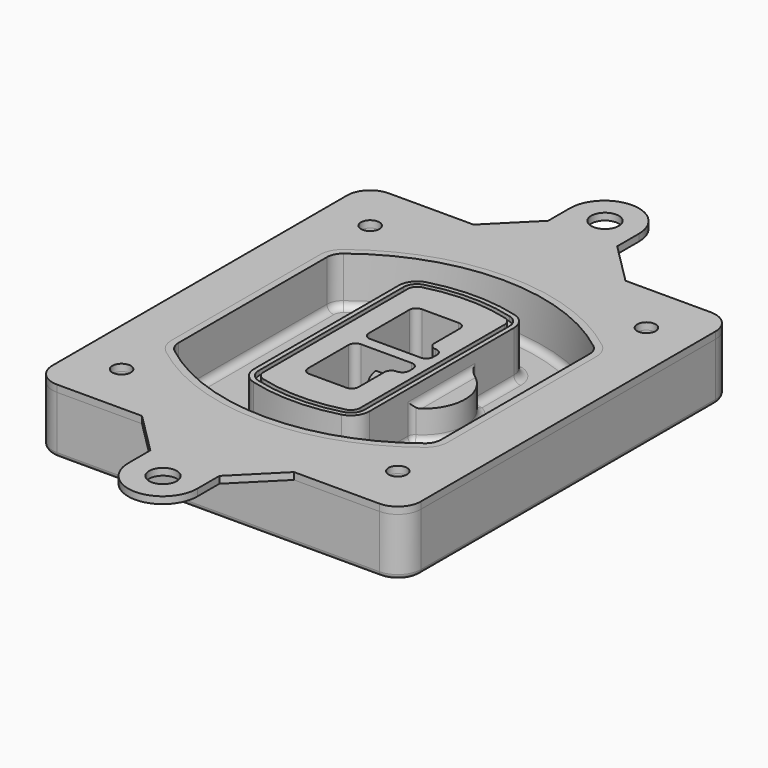
from build123d import *

# Parameters (mm, degrees)
F0_R      = 4
F1_DEPTH  = 25
F2_DEPTH  = 3
F3_DEPTH  = 18
F5_DEPTH  = 21
F6_DEPTH  = 2
F8_DEPTH  = 20
F9_DEPTH  = 16
F7_R      = 6
F7_R_2    = 4
F10_DEPTH = 6
F12_DEPTH = 9
F13_R     = 3
F14_R     = 2
F15_R     = 4
F16_DEPTH = 3
F15_R_2   = 6
F17_DEPTH = 3


with BuildPart() as f1:
    # F0 (on Top) → F1 (new body)
    with BuildSketch(Plane.XY):
        with BuildLine():
            ThreePointArc((-80, -80), (-77.0710678119, -87.0710678119), (-70, -90))
            Line((-70, -90), (70, -90))
            ThreePointArc((70, -90), (77.0710678119, -87.0710678119), (80, -80))
            Line((80, -80), (80, 80))
            ThreePointArc((80, 80), (77.0710678119, 87.0710678119), (70, 90))
            Line((70, 90), (-70, 90))
            ThreePointArc((-70, 90), (-77.0710678119, 87.0710678119), (-80, 80))
            Line((-80, 80), (-80, -80))
        make_face()
        with Locations((-60, -67.5)):
            Circle(F0_R, mode=Mode.SUBTRACT)
        with Locations((60, -67.5)):
            Circle(F0_R, mode=Mode.SUBTRACT)
        with Locations((-60, 67.5)):
            Circle(F0_R, mode=Mode.SUBTRACT)
        with BuildLine():
            ThreePointArc((-64, 40.2934422872), (-62.5820384798, 46.4328484224), (-58.6153846154, 51.3286200352))
            ThreePointArc((-58.6153846154, 51.3286200352), (0, 71.5), (58.6153846154, 51.3286200352))
            ThreePointArc((58.6153846154, 51.3286200352), (62.5820384798, 46.4328484224), (64, 40.2934422872))
            Line((64, 40.2934422872), (64, -40.2934422872))
            ThreePointArc((64, -40.2934422872), (62.5820384798, -46.4328484224), (58.6153846154, -51.3286200352))
            ThreePointArc((58.6153846154, -51.3286200352), (0, -71.5), (-58.6153846154, -51.3286200352))
            ThreePointArc((-58.6153846154, -51.3286200352), (-62.5820384798, -46.4328484224), (-64, -40.2934422872))
            Line((-64, -40.2934422872), (-64, 40.2934422872))
        make_face(mode=Mode.SUBTRACT)
        with Locations((60, 67.5)):
            Circle(F0_R, mode=Mode.SUBTRACT)
        with BuildLine():
            ThreePointArc((58.6153846154, 51.3286200352), (0, 71.5), (-58.6153846154, 51.3286200352))
            ThreePointArc((-58.6153846154, 51.3286200352), (-62.5820384798, 46.4328484224), (-64, 40.2934422872))
            Line((-64, 40.2934422872), (-64, -40.2934422872))
            ThreePointArc((-64, -40.2934422872), (-62.5820384798, -46.4328484224), (-58.6153846154, -51.3286200352))
            ThreePointArc((-58.6153846154, -51.3286200352), (0, -71.5), (58.6153846154, -51.3286200352))
            ThreePointArc((58.6153846154, -51.3286200352), (62.5820384798, -46.4328484224), (64, -40.2934422872))
            Line((64, -40.2934422872), (64, 40.2934422872))
            ThreePointArc((64, 40.2934422872), (62.5820384798, 46.4328484224), (58.6153846154, 51.3286200352))
        make_face()
        with BuildLine():
            Line((-60, -40.2934422872), (-60, 40.2934422872))
            ThreePointArc((-60, 40.2934422872), (-58.9871703427, 44.6787323838), (-56.1538461538, 48.1757121072))
            ThreePointArc((-56.1538461538, 48.1757121072), (0, 67.5), (56.1538461538, 48.1757121072))
            ThreePointArc((56.1538461538, 48.1757121072), (58.9871703427, 44.6787323838), (60, 40.2934422872))
            Line((60, 40.2934422872), (60, -40.2934422872))
            ThreePointArc((60, -40.2934422872), (58.9871703427, -44.6787323838), (56.1538461538, -48.1757121072))
            ThreePointArc((56.1538461538, -48.1757121072), (0, -67.5), (-56.1538461538, -48.1757121072))
            ThreePointArc((-56.1538461538, -48.1757121072), (-58.9871703427, -44.6787323838), (-60, -40.2934422872))
        make_face(mode=Mode.SUBTRACT)
        with BuildLine():
            ThreePointArc((-56.1538461538, 48.1757121072), (-58.9871703427, 44.6787323838), (-60, 40.2934422872))
            Line((-60, 40.2934422872), (-60, -40.2934422872))
            ThreePointArc((-60, -40.2934422872), (-58.9871703427, -44.6787323838), (-56.1538461538, -48.1757121072))
            ThreePointArc((-56.1538461538, -48.1757121072), (0, -67.5), (56.1538461538, -48.1757121072))
            ThreePointArc((56.1538461538, -48.1757121072), (58.9871703427, -44.6787323838), (60, -40.2934422872))
            Line((60, -40.2934422872), (60, 40.2934422872))
            ThreePointArc((60, 40.2934422872), (58.9871703427, 44.6787323838), (56.1538461538, 48.1757121072))
            ThreePointArc((56.1538461538, 48.1757121072), (0, 67.5), (-56.1538461538, 48.1757121072))
        make_face()
        with BuildLine():
            ThreePointArc((54.3076923077, 45.8110311612), (56.2910192399, 43.3631453548), (57, 40.2934422872))
            Line((57, 40.2934422872), (57, -40.2934422872))
            ThreePointArc((57, -40.2934422872), (56.2910192399, -43.3631453548), (54.3076923077, -45.8110311612))
            ThreePointArc((54.3076923077, -45.8110311612), (0, -64.5), (-54.3076923077, -45.8110311612))
            ThreePointArc((-54.3076923077, -45.8110311612), (-56.2910192399, -43.3631453548), (-57, -40.2934422872))
            Line((-57, -40.2934422872), (-57, 40.2934422872))
            ThreePointArc((-57, 40.2934422872), (-56.2910192399, 43.3631453548), (-54.3076923077, 45.8110311612))
            ThreePointArc((-54.3076923077, 45.8110311612), (0, 64.5), (54.3076923077, 45.8110311612))
        make_face(mode=Mode.SUBTRACT)
        with BuildLine():
            Line((57, -40.2934422872), (57, 40.2934422872))
            ThreePointArc((57, 40.2934422872), (56.2910192399, 43.3631453548), (54.3076923077, 45.8110311612))
            ThreePointArc((54.3076923077, 45.8110311612), (0, 64.5), (-54.3076923077, 45.8110311612))
            ThreePointArc((-54.3076923077, 45.8110311612), (-56.2910192399, 43.3631453548), (-57, 40.2934422872))
            Line((-57, 40.2934422872), (-57, -40.2934422872))
            ThreePointArc((-57, -40.2934422872), (-56.2910192399, -43.3631453548), (-54.3076923077, -45.8110311612))
            ThreePointArc((-54.3076923077, -45.8110311612), (0, -64.5), (54.3076923077, -45.8110311612))
            ThreePointArc((54.3076923077, -45.8110311612), (56.2910192399, -43.3631453548), (57, -40.2934422872))
        make_face()
    extrude(amount=-F1_DEPTH)

    # F0 (on Top) → F2 (join)
    with BuildSketch(Plane.XY):
        with BuildLine():
            ThreePointArc((-56.1538461538, 48.1757121072), (-58.9871703427, 44.6787323838), (-60, 40.2934422872))
            Line((-60, 40.2934422872), (-60, -40.2934422872))
            ThreePointArc((-60, -40.2934422872), (-58.9871703427, -44.6787323838), (-56.1538461538, -48.1757121072))
            ThreePointArc((-56.1538461538, -48.1757121072), (0, -67.5), (56.1538461538, -48.1757121072))
            ThreePointArc((56.1538461538, -48.1757121072), (58.9871703427, -44.6787323838), (60, -40.2934422872))
            Line((60, -40.2934422872), (60, 40.2934422872))
            ThreePointArc((60, 40.2934422872), (58.9871703427, 44.6787323838), (56.1538461538, 48.1757121072))
            ThreePointArc((56.1538461538, 48.1757121072), (0, 67.5), (-56.1538461538, 48.1757121072))
        make_face()
        with BuildLine():
            ThreePointArc((54.3076923077, 45.8110311612), (56.2910192399, 43.3631453548), (57, 40.2934422872))
            Line((57, 40.2934422872), (57, -40.2934422872))
            ThreePointArc((57, -40.2934422872), (56.2910192399, -43.3631453548), (54.3076923077, -45.8110311612))
            ThreePointArc((54.3076923077, -45.8110311612), (0, -64.5), (-54.3076923077, -45.8110311612))
            ThreePointArc((-54.3076923077, -45.8110311612), (-56.2910192399, -43.3631453548), (-57, -40.2934422872))
            Line((-57, -40.2934422872), (-57, 40.2934422872))
            ThreePointArc((-57, 40.2934422872), (-56.2910192399, 43.3631453548), (-54.3076923077, 45.8110311612))
            ThreePointArc((-54.3076923077, 45.8110311612), (0, 64.5), (54.3076923077, 45.8110311612))
        make_face(mode=Mode.SUBTRACT)
    extrude(amount=F2_DEPTH)

    # F0 (on Top) → F3 (cut)
    with BuildSketch(Plane.XY):
        with BuildLine():
            Line((57, -40.2934422872), (57, 40.2934422872))
            ThreePointArc((57, 40.2934422872), (56.2910192399, 43.3631453548), (54.3076923077, 45.8110311612))
            ThreePointArc((54.3076923077, 45.8110311612), (0, 64.5), (-54.3076923077, 45.8110311612))
            ThreePointArc((-54.3076923077, 45.8110311612), (-56.2910192399, 43.3631453548), (-57, 40.2934422872))
            Line((-57, 40.2934422872), (-57, -40.2934422872))
            ThreePointArc((-57, -40.2934422872), (-56.2910192399, -43.3631453548), (-54.3076923077, -45.8110311612))
            ThreePointArc((-54.3076923077, -45.8110311612), (0, -64.5), (54.3076923077, -45.8110311612))
            ThreePointArc((54.3076923077, -45.8110311612), (56.2910192399, -43.3631453548), (57, -40.2934422872))
        make_face()
    extrude(amount=-F3_DEPTH, mode=Mode.SUBTRACT)

    # F4 (on face) → F5 (join, through all)
    with BuildSketch(Plane.XY.offset(3)):
        with BuildLine():
            ThreePointArc((-25, -39.2465276821), (-23.3511545998, -44.1109737193), (-19.0842911877, -46.9702398883))
            ThreePointArc((-19.0842911877, -46.9702398883), (0, -49.5), (19.0842911877, -46.9702398883))
            ThreePointArc((19.0842911877, -46.9702398883), (23.3511545998, -44.1109737193), (25, -39.2465276821))
            Line((25, -39.2465276821), (25, 39.2465276821))
            ThreePointArc((25, 39.2465276821), (23.3511545998, 44.1109737193), (19.0842911877, 46.9702398883))
            ThreePointArc((19.0842911877, 46.9702398883), (0, 49.5), (-19.0842911877, 46.9702398883))
            ThreePointArc((-19.0842911877, 46.9702398883), (-23.3511545998, 44.1109737193), (-25, 39.2465276821))
            Line((-25, 39.2465276821), (-25, -39.2465276821))
        make_face()
        with BuildLine():
            ThreePointArc((18.5632183908, 45.0393118368), (21.7633659499, 42.89486221), (23, 39.2465276821))
            Line((23, 39.2465276821), (23, -39.2465276821))
            ThreePointArc((23, -39.2465276821), (21.7633659499, -42.89486221), (18.5632183908, -45.0393118368))
            ThreePointArc((18.5632183908, -45.0393118368), (0, -47.5), (-18.5632183908, -45.0393118368))
            ThreePointArc((-18.5632183908, -45.0393118368), (-21.7633659499, -42.89486221), (-23, -39.2465276821))
            Line((-23, -39.2465276821), (-23, 39.2465276821))
            ThreePointArc((-23, 39.2465276821), (-21.7633659499, 42.89486221), (-18.5632183908, 45.0393118368))
            ThreePointArc((-18.5632183908, 45.0393118368), (0, 47.5), (18.5632183908, 45.0393118368))
        make_face(mode=Mode.SUBTRACT)
        with BuildLine():
            Line((23, -39.2465276821), (23, 39.2465276821))
            ThreePointArc((23, 39.2465276821), (21.7633659499, 42.89486221), (18.5632183908, 45.0393118368))
            ThreePointArc((18.5632183908, 45.0393118368), (0, 47.5), (-18.5632183908, 45.0393118368))
            ThreePointArc((-18.5632183908, 45.0393118368), (-21.7633659499, 42.89486221), (-23, 39.2465276821))
            Line((-23, 39.2465276821), (-23, -39.2465276821))
            ThreePointArc((-23, -39.2465276821), (-21.7633659499, -42.89486221), (-18.5632183908, -45.0393118368))
            ThreePointArc((-18.5632183908, -45.0393118368), (0, -47.5), (18.5632183908, -45.0393118368))
            ThreePointArc((18.5632183908, -45.0393118368), (21.7633659499, -42.89486221), (23, -39.2465276821))
        make_face()
        with BuildLine():
            ThreePointArc((18.0421455939, 43.1083837852), (20.1755772999, 41.6787507007), (21, 39.2465276821))
            Line((21, 39.2465276821), (21, -39.2465276821))
            ThreePointArc((21, -39.2465276821), (20.1755772999, -41.6787507007), (18.0421455939, -43.1083837852))
            ThreePointArc((18.0421455939, -43.1083837852), (0, -45.5), (-18.0421455939, -43.1083837852))
            ThreePointArc((-18.0421455939, -43.1083837852), (-20.1755772999, -41.6787507007), (-21, -39.2465276821))
            Line((-21, -39.2465276821), (-21, 39.2465276821))
            ThreePointArc((-21, 39.2465276821), (-20.1755772999, 41.6787507007), (-18.0421455939, 43.1083837852))
            ThreePointArc((-18.0421455939, 43.1083837852), (0, 45.5), (18.0421455939, 43.1083837852))
        make_face(mode=Mode.SUBTRACT)
        with BuildLine():
            Line((21, -39.2465276821), (21, 39.2465276821))
            ThreePointArc((21, 39.2465276821), (20.1755772999, 41.6787507007), (18.0421455939, 43.1083837852))
            ThreePointArc((18.0421455939, 43.1083837852), (0, 45.5), (-18.0421455939, 43.1083837852))
            ThreePointArc((-18.0421455939, 43.1083837852), (-20.1755772999, 41.6787507007), (-21, 39.2465276821))
            Line((-21, 39.2465276821), (-21, -39.2465276821))
            ThreePointArc((-21, -39.2465276821), (-20.1755772999, -41.6787507007), (-18.0421455939, -43.1083837852))
            ThreePointArc((-18.0421455939, -43.1083837852), (0, -45.5), (18.0421455939, -43.1083837852))
            ThreePointArc((18.0421455939, -43.1083837852), (20.1755772999, -41.6787507007), (21, -39.2465276821))
        make_face()
        with BuildLine():
            Line((-8, -2.5), (14, -2.5))
            ThreePointArc((14, -2.5), (16.1213203436, -3.3786796564), (17, -5.5))
            Line((17, -5.5), (17, -7.5))
            ThreePointArc((17, -7.5), (16.1213203436, -9.6213203436), (14, -10.5))
            ThreePointArc((14, -10.5), (11.8786796564, -11.3786796564), (11, -13.5))
            Line((11, -13.5), (11, -27.5))
            ThreePointArc((11, -27.5), (10.1213203436, -29.6213203436), (8, -30.5))
            Line((8, -30.5), (-8, -30.5))
            ThreePointArc((-8, -30.5), (-10.1213203436, -29.6213203436), (-11, -27.5))
            Line((-11, -27.5), (-11, -5.5))
            ThreePointArc((-11, -5.5), (-10.1213203436, -3.3786796564), (-8, -2.5))
        make_face(mode=Mode.SUBTRACT)
        with BuildLine():
            ThreePointArc((-8, 2.5), (-10.1213203436, 3.3786796564), (-11, 5.5))
            Line((-11, 5.5), (-11, 27.5))
            ThreePointArc((-11, 27.5), (-10.1213203436, 29.6213203436), (-8, 30.5))
            Line((-8, 30.5), (8, 30.5))
            ThreePointArc((8, 30.5), (10.1213203436, 29.6213203436), (11, 27.5))
            Line((11, 27.5), (11, 13.5))
            ThreePointArc((11, 13.5), (11.8786796564, 11.3786796564), (14, 10.5))
            ThreePointArc((14, 10.5), (16.1213203436, 9.6213203436), (17, 7.5))
            Line((17, 7.5), (17, 5.5))
            ThreePointArc((17, 5.5), (16.1213203436, 3.3786796564), (14, 2.5))
            Line((14, 2.5), (-8, 2.5))
        make_face(mode=Mode.SUBTRACT)
    extrude(amount=-F5_DEPTH)

    # F4 (on face) → F6 (cut)
    with BuildSketch(Plane.XY.offset(3)):
        with BuildLine():
            Line((23, -39.2465276821), (23, 39.2465276821))
            ThreePointArc((23, 39.2465276821), (21.7633659499, 42.89486221), (18.5632183908, 45.0393118368))
            ThreePointArc((18.5632183908, 45.0393118368), (0, 47.5), (-18.5632183908, 45.0393118368))
            ThreePointArc((-18.5632183908, 45.0393118368), (-21.7633659499, 42.89486221), (-23, 39.2465276821))
            Line((-23, 39.2465276821), (-23, -39.2465276821))
            ThreePointArc((-23, -39.2465276821), (-21.7633659499, -42.89486221), (-18.5632183908, -45.0393118368))
            ThreePointArc((-18.5632183908, -45.0393118368), (0, -47.5), (18.5632183908, -45.0393118368))
            ThreePointArc((18.5632183908, -45.0393118368), (21.7633659499, -42.89486221), (23, -39.2465276821))
        make_face()
        with BuildLine():
            ThreePointArc((18.0421455939, 43.1083837852), (20.1755772999, 41.6787507007), (21, 39.2465276821))
            Line((21, 39.2465276821), (21, -39.2465276821))
            ThreePointArc((21, -39.2465276821), (20.1755772999, -41.6787507007), (18.0421455939, -43.1083837852))
            ThreePointArc((18.0421455939, -43.1083837852), (0, -45.5), (-18.0421455939, -43.1083837852))
            ThreePointArc((-18.0421455939, -43.1083837852), (-20.1755772999, -41.6787507007), (-21, -39.2465276821))
            Line((-21, -39.2465276821), (-21, 39.2465276821))
            ThreePointArc((-21, 39.2465276821), (-20.1755772999, 41.6787507007), (-18.0421455939, 43.1083837852))
            ThreePointArc((-18.0421455939, 43.1083837852), (0, 45.5), (18.0421455939, 43.1083837852))
        make_face(mode=Mode.SUBTRACT)
    extrude(amount=-F6_DEPTH, mode=Mode.SUBTRACT)

    # F7 (on face) → F8 (join)
    with BuildSketch(Plane(origin=(0, 0, -25), x_dir=(1, 0, 0), z_dir=(0, 0, -1))):
        with BuildLine():
            ThreePointArc((3.28842436, 0), (16.7567035675, 13.4682792075), (30.224982775, 0))
            Line((30.224982775, 0), (35.224982775, 0))
            ThreePointArc((35.224982775, 0), (16.7567035675, 18.4682792075), (-1.71157564, 0))
            Line((-1.71157564, 0), (3.28842436, 0))
        make_face()
        with BuildLine():
            Line((3.28842436, 0), (30.224982775, 0))
            ThreePointArc((30.224982775, 0), (16.7567035675, 13.4682792075), (3.28842436, 0))
        make_face()
        with BuildLine():
            ThreePointArc((3.28842436, 0), (16.7567035675, -13.4682792075), (30.224982775, 0))
            Line((30.224982775, 0), (3.28842436, 0))
        make_face()
        with BuildLine():
            Line((35.224982775, 0), (30.224982775, 0))
            ThreePointArc((30.224982775, 0), (16.7567035675, -13.4682792075), (3.28842436, 0))
            Line((3.28842436, 0), (-1.71157564, 0))
            ThreePointArc((-1.71157564, 0), (16.7567035675, -18.4682792075), (35.224982775, 0))
        make_face()
    extrude(amount=-F8_DEPTH)

    # F7 (on face) → F9 (cut)
    with BuildSketch(Plane(origin=(0, 0, -25), x_dir=(1, 0, 0), z_dir=(0, 0, -1))):
        with BuildLine():
            Line((3.28842436, 0), (30.224982775, 0))
            ThreePointArc((30.224982775, 0), (16.7567035675, 13.4682792075), (3.28842436, 0))
        make_face()
        with BuildLine():
            ThreePointArc((3.28842436, 0), (16.7567035675, -13.4682792075), (30.224982775, 0))
            Line((30.224982775, 0), (3.28842436, 0))
        make_face()
    extrude(amount=-F9_DEPTH, mode=Mode.SUBTRACT)

    # F7 (on face) → F10 (cut)
    with BuildSketch(Plane(origin=(0, 0, -25), x_dir=(1, 0, 0), z_dir=(0, 0, -1))):
        with Locations((60, -67.5)):
            Circle(F7_R)
        with Locations((60, -67.5)):
            Circle(F7_R_2, mode=Mode.SUBTRACT)
        with Locations((60, -67.5)):
            Circle(F7_R)
        with Locations((60, -67.5)):
            Circle(F7_R_2, mode=Mode.SUBTRACT)
        with Locations((-60, -67.5)):
            Circle(F7_R)
        with Locations((-60, -67.5)):
            Circle(F7_R_2, mode=Mode.SUBTRACT)
        with Locations((-60, -67.5)):
            Circle(F7_R)
        with Locations((-60, -67.5)):
            Circle(F7_R_2, mode=Mode.SUBTRACT)
        with Locations((-60, 67.5)):
            Circle(F7_R)
        with Locations((-60, 67.5)):
            Circle(F7_R_2, mode=Mode.SUBTRACT)
        with Locations((-60, 67.5)):
            Circle(F7_R)
        with Locations((-60, 67.5)):
            Circle(F7_R_2, mode=Mode.SUBTRACT)
        with Locations((60, 67.5)):
            Circle(F7_R)
        with Locations((60, 67.5)):
            Circle(F7_R_2, mode=Mode.SUBTRACT)
        with Locations((60, 67.5)):
            Circle(F7_R)
        with Locations((60, 67.5)):
            Circle(F7_R_2, mode=Mode.SUBTRACT)
    extrude(amount=-F10_DEPTH, mode=Mode.SUBTRACT)

    # F11 (on face) → F12 (cut, through all)
    with BuildSketch(Plane(origin=(0, 0, -9), x_dir=(1, 0, 0), z_dir=(0, 0, -1))):
        with BuildLine():
            Line((11, 13.5), (11, 17.5481537753))
            ThreePointArc((11, 17.5481537753), (2.5696536419, 11.8239143813), (-1.5415842455, 2.5))
            Line((-1.5415842455, 2.5), (3.5224848595, 2.5))
            ThreePointArc((3.5224848595, 2.5), (6.1857188154, 8.3455872281), (11.2536447004, 12.2927168648))
            ThreePointArc((11.2536447004, 12.2927168648), (11.0640958889, 12.8831798879), (11, 13.5))
        make_face()
        with BuildLine():
            ThreePointArc((11.2536447004, -12.2927168648), (6.1857188154, -8.3455872281), (3.5224848595, -2.5))
            Line((3.5224848595, -2.5), (-1.5415842455, -2.5))
            ThreePointArc((-1.5415842455, -2.5), (2.5696536419, -11.8239143813), (11, -17.5481537753))
            Line((11, -17.5481537753), (11, -13.5))
            ThreePointArc((11, -13.5), (11.0640958889, -12.8831798879), (11.2536447004, -12.2927168648))
        make_face()
        with BuildLine():
            ThreePointArc((11.2536447004, 12.2927168648), (6.1857188154, 8.3455872281), (3.5224848595, 2.5))
            Line((3.5224848595, 2.5), (14, 2.5))
            ThreePointArc((14, 2.5), (16.1213203436, 3.3786796564), (17, 5.5))
            Line((17, 5.5), (17, 7.5))
            ThreePointArc((17, 7.5), (16.1213203436, 9.6213203436), (14, 10.5))
            ThreePointArc((14, 10.5), (12.3601599782, 10.9878446101), (11.2536447004, 12.2927168648))
        make_face()
        with BuildLine():
            Line((14, -2.5), (3.5224848595, -2.5))
            ThreePointArc((3.5224848595, -2.5), (6.1857188154, -8.3455872281), (11.2536447004, -12.2927168648))
            ThreePointArc((11.2536447004, -12.2927168648), (12.3601599782, -10.9878446101), (14, -10.5))
            ThreePointArc((14, -10.5), (16.1213203436, -9.6213203436), (17, -7.5))
            Line((17, -7.5), (17, -5.5))
            ThreePointArc((17, -5.5), (16.1213203436, -3.3786796564), (14, -2.5))
        make_face()
    extrude(amount=F12_DEPTH, mode=Mode.SUBTRACT)

    # F13
    f13_edges = [f1.edges().sort_by_distance(p)[0] for p in [
        (-57, 0, -18),
        (25, 0, -5),
        (25, 16.526506, -11.5),
        (25, -16.526506, -11.5),
        (25, -27.886517, -18),
        (35.224983, 0, -18),
    ]]
    fillet(f13_edges, radius=F13_R)

    # F14
    f14_edges = [f1.edges().sort_by_distance(p)[0] for p in [
        (0, -90, -25),
    ]]
    fillet(f14_edges, radius=F14_R)


with BuildPart() as f16:
    # F15 (on face) → F16 (new body, through all)
    with BuildSketch(Plane.XY):
        with BuildLine():
            Line((32.8960848032, 90), (-33.1039151968, 90))
            Line((-33.1039151968, 90), (-70, 90))
            ThreePointArc((-70, 90), (-77.0710678119, 87.0710678119), (-80, 80))
            Line((-80, 80), (-80, -80))
            ThreePointArc((-80, -80), (-77.0710678119, -87.0710678119), (-70, -90))
            Line((-70, -90), (-33.1039151968, -90))
            Line((-33.1039151968, -90), (32.8960848032, -90))
            Line((32.8960848032, -90), (70, -90))
            ThreePointArc((70, -90), (77.0710678119, -87.0710678119), (80, -80))
            Line((80, -80), (80, 80))
            ThreePointArc((80, 80), (77.0710678119, 87.0710678119), (70, 90))
            Line((70, 90), (32.8960848032, 90))
        make_face()
        with Locations((-60, -67.5)):
            Circle(F15_R, mode=Mode.SUBTRACT)
        with Locations((60, -67.5)):
            Circle(F15_R, mode=Mode.SUBTRACT)
        with Locations((-60, 67.5)):
            Circle(F15_R, mode=Mode.SUBTRACT)
        with BuildLine():
            ThreePointArc((-60, 40.2934422872), (-58.9871703427, 44.6787323838), (-56.1538461538, 48.1757121072))
            ThreePointArc((-56.1538461538, 48.1757121072), (0, 67.5), (56.1538461538, 48.1757121072))
            ThreePointArc((56.1538461538, 48.1757121072), (58.9871703427, 44.6787323838), (60, 40.2934422872))
            Line((60, 40.2934422872), (60, -40.2934422872))
            ThreePointArc((60, -40.2934422872), (58.9871703427, -44.6787323838), (56.1538461538, -48.1757121072))
            ThreePointArc((56.1538461538, -48.1757121072), (0, -67.5), (-56.1538461538, -48.1757121072))
            ThreePointArc((-56.1538461538, -48.1757121072), (-58.9871703427, -44.6787323838), (-60, -40.2934422872))
            Line((-60, -40.2934422872), (-60, 40.2934422872))
        make_face(mode=Mode.SUBTRACT)
        with Locations((60, 67.5)):
            Circle(F15_R, mode=Mode.SUBTRACT)
    extrude(amount=F16_DEPTH)

    # F15 (on face) → F17 (join, through all)
    with BuildSketch(Plane.XY):
        with BuildLine():
            Line((-15.1039151968, 108), (-33.1039151968, 90))
            Line((-33.1039151968, 90), (32.8960848032, 90))
            Line((32.8960848032, 90), (14.8960848032, 108))
            Line((14.8960848032, 108), (14.8960848032, 119.7864744823))
            ThreePointArc((14.8960848032, 119.7864744823), (-0.1039151968, 134.7864744823), (-15.1039151968, 119.7864744823))
            Line((-15.1039151968, 119.7864744823), (-15.1039151968, 108))
        make_face()
        with Locations((0, 120)):
            Circle(F15_R_2, mode=Mode.SUBTRACT)
        with BuildLine():
            Line((32.8960848032, -90), (-33.1039151968, -90))
            Line((-33.1039151968, -90), (-15.1039151968, -108))
            Line((-15.1039151968, -108), (-15.1039151968, -120))
            ThreePointArc((-15.1039151968, -120), (-0.1039151968, -135), (14.8960848032, -120))
            Line((14.8960848032, -120), (14.8960848032, -108))
            Line((14.8960848032, -108), (32.8960848032, -90))
        make_face()
        with Locations((0, -120)):
            Circle(F15_R_2, mode=Mode.SUBTRACT)
    extrude(amount=F17_DEPTH)


solid = Compound([f1.part, f16.part])
